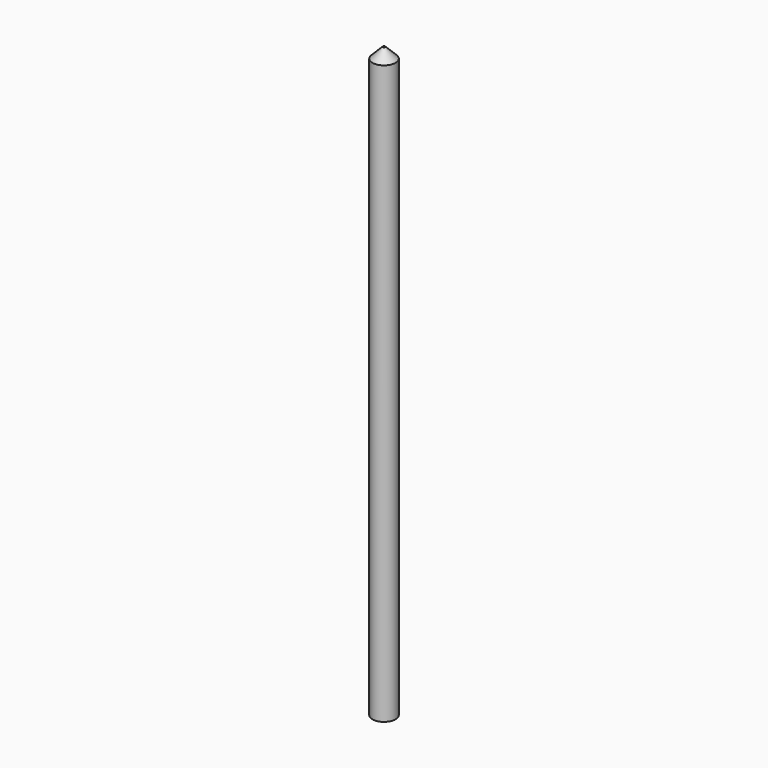
from build123d import *

# Parameters (mm, degrees)
F0_R     = 1.27
F1_DEPTH = 64.77
F2_SIZE  = 1.27
F3_R     = 0.127
F4_DEPTH = 64.771


with BuildPart() as f1:
    # F0 (on Top) → F1 (new body)
    with BuildSketch(Plane.XY):
        Circle(F0_R)
    extrude(amount=F1_DEPTH)

    # F2
    f2_edges = [f1.edges().sort_by_distance(p)[0] for p in [
        (-1.27, 0, 64.77),
    ]]
    chamfer(f2_edges, length=F2_SIZE)

    # F3 (on face) → F4 (cut, through all)
    with BuildSketch(Plane(origin=(0, 0, 0), x_dir=(1, 0, 0), z_dir=(0, 0, -1))):
        Circle(F3_R)
    extrude(amount=-F4_DEPTH, mode=Mode.SUBTRACT)


solid = f1.part
